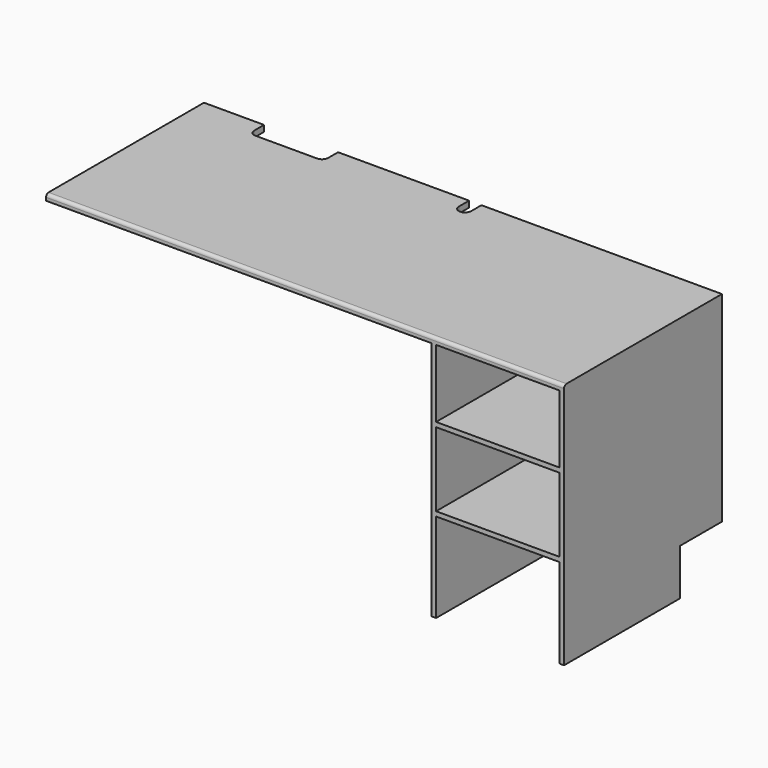
from build123d import *

# Parameters (mm, degrees)
F1_DEPTH      = 25.4
F2_R          = 12.7
F3_W          = 508
F3_H          = 19.05
F4_DEPTH      = 406.4
F4_DEPTH_BACK = 406.4
F5_W          = 215.9
F5_H          = 190.5
F6_DEPTH      = 2133.601


with BuildPart() as f1:
    # F0 (on Top) → F1 (new body)
    with BuildSketch(Plane.XY):
        with BuildLine():
            Line((-819.15, 406.4), (-1066.8, 406.4))
            Line((-1066.8, 406.4), (-1066.8, -406.4))
            Line((-1066.8, -406.4), (1066.8, -406.4))
            Line((1066.8, -406.4), (1066.8, 406.4))
            Line((1066.8, 406.4), (76.2, 406.4))
            Line((76.2, 406.4), (76.2, 353.484618))
            ThreePointArc((76.2, 353.484618), (68.760512, 335.524106), (50.8, 328.084618))
            ThreePointArc((50.8, 328.084618), (32.839488, 335.524106), (25.4, 353.484618))
            Line((25.4, 353.484618), (25.4, 406.4))
            Line((25.4, 406.4), (-514.35, 406.4))
            Line((-514.35, 406.4), (-514.35, 355.6))
            ThreePointArc((-514.35, 355.6), (-521.789488, 337.639488), (-539.75, 330.2))
            Line((-539.75, 330.2), (-793.75, 330.2))
            ThreePointArc((-793.75, 330.2), (-811.710512, 337.639488), (-819.15, 355.6))
            Line((-819.15, 355.6), (-819.15, 406.4))
        make_face()
    extrude(amount=F1_DEPTH)

    # F2
    f2_edges = [f1.edges().sort_by_distance(p)[0] for p in [
        (0, -406.4, 25.4),
    ]]
    fillet(f2_edges, radius=F2_R)

    # F3 (on Front) → F4 (join, two sides)
    with BuildSketch(Plane.XZ) as f4_sk:
        Polygon((1066.8, -990.6), (1066.8, 0), (1047.75, 0), (1047.75, -279.4), (1047.75, -298.45), (1047.75, -603.25), (1047.75, -622.3), (1047.75, -990.6), align=None)
        Polygon((539.75, -298.45), (539.75, -279.4), (539.75, 0), (520.7, 0), (520.7, -990.6), (539.75, -990.6), (539.75, -622.3), (539.75, -603.25), align=None)
        with Locations((793.75, -288.925)):
            Rectangle(F3_W, F3_H)
        with Locations((793.75, -612.775)):
            Rectangle(F3_W, F3_H)
    extrude(amount=F4_DEPTH)
    extrude(f4_sk.sketch, amount=-F4_DEPTH_BACK)

    # F5 (on face) → F6 (cut, through all)
    with BuildSketch(Plane.YZ.offset(1066.8)):
        with Locations((298.45, -895.35)):
            Rectangle(F5_W, F5_H)
    extrude(amount=-F6_DEPTH, mode=Mode.SUBTRACT)


solid = f1.part
